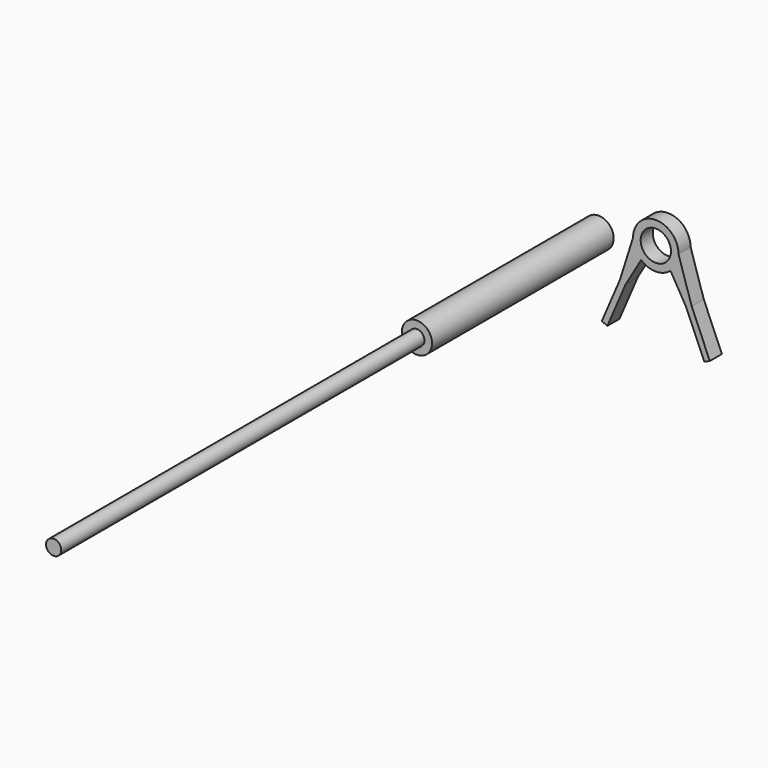
from build123d import *

# Parameters (mm, degrees)
F0_R     = 5
F1_DEPTH = 75
F2_R     = 2.5
F3_DEPTH = 150
F4_R     = 5
F5_DEPTH = 5


with BuildPart() as f1:
    # F0 (on Front) → F1 (new body)
    with BuildSketch(Plane.XZ):
        Circle(F0_R)
    extrude(amount=F1_DEPTH)

    # F2 (on face) → F3 (join)
    with BuildSketch(Plane.XZ.offset(75)):
        Circle(F2_R)
    extrude(amount=F3_DEPTH)


with BuildPart() as f5:
    # F4 (on Front) → F5 (new body)
    with BuildSketch(Plane.XZ):
        with BuildLine():
            Line((34.756327, -8.013132), (30.417428, 5.715688))
            ThreePointArc((30.417428, 5.715688), (29.724415, 2.566889), (27.773446, 0))
            Line((27.773446, 0), (32.917428, -8.799549))
            Line((32.917428, -8.799549), (38.917428, -22.799549))
            Line((38.917428, -22.799549), (40.755718, -22.01171))
            Line((40.755718, -22.01171), (34.756327, -8.013132))
        make_face()
        with BuildLine():
            ThreePointArc((18.06141, 0), (16.110441, 2.566889), (15.417428, 5.715688))
            Line((15.417428, 5.715688), (11.078529, -8.013132))
            Line((11.078529, -8.013132), (5.079138, -22.01171))
            Line((5.079138, -22.01171), (6.917428, -22.799549))
            Line((6.917428, -22.799549), (12.917428, -8.799549))
            Line((12.917428, -8.799549), (18.06141, 0))
        make_face()
        with BuildLine():
            ThreePointArc((27.773446, 0), (29.724415, 2.566889), (30.417428, 5.715688))
            ThreePointArc((30.417428, 5.715688), (22.917428, 13.215688), (15.417428, 5.715688))
            ThreePointArc((15.417428, 5.715688), (16.110441, 2.566889), (18.06141, 0))
            ThreePointArc((18.06141, 0), (22.917428, -1.784312), (27.773446, 0))
        make_face()
        with Locations((22.917428, 5.715688)):
            Circle(F4_R, mode=Mode.SUBTRACT)
    extrude(amount=F5_DEPTH)


solid = Compound([f1.part, f5.part])
